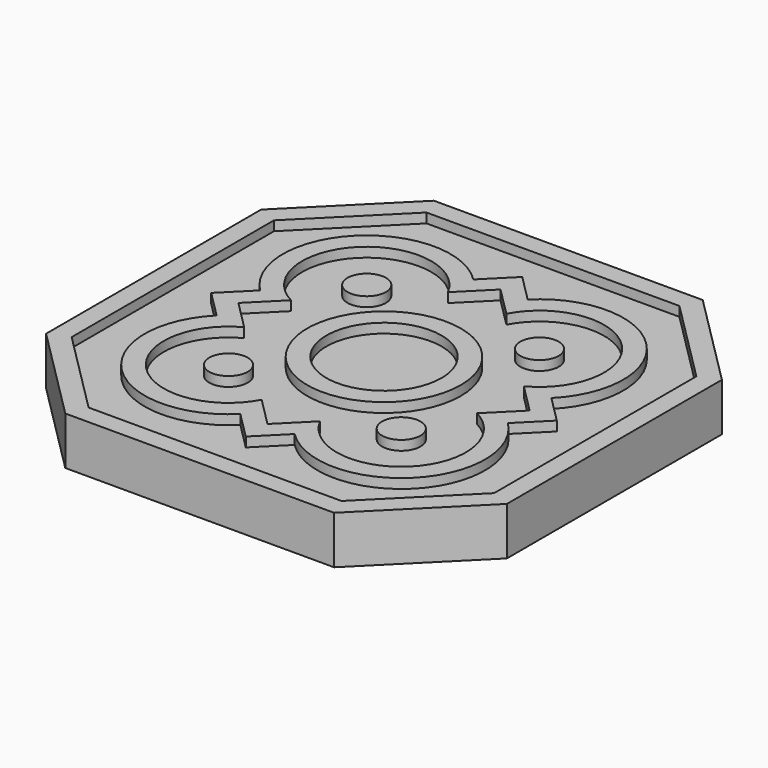
from build123d import *

# Parameters (mm, degrees)
F1_DEPTH = 6.35
F2_R     = 12.7
F2_R_2   = 9.525
F2_R_3   = 3.175
F3_DEPTH = 1.5875
F4_W     = 3.175
F4_H     = 25.4
F5_DEPTH = 3.175
F6_W     = 38.1
F6_H     = 25.4
F7_DEPTH = 3.175


with BuildPart() as f1:
    # F0 (on Top) → F1 (new body)
    with BuildSketch(Plane.XY):
        Polygon((-15.875, 0), (-60.325, 0), (-76.2, -15.875), (-76.2, -60.325), (-60.325, -76.2), (-15.875, -76.2), (0, -60.325), (0, -15.875), align=None)
    extrude(amount=F1_DEPTH)

    # F2 (on face) → F3 (join)
    with BuildSketch(Plane.XY.offset(6.35)):
        Polygon((0, -15.875), (-15.875, 0), (-60.325, 0), (-76.2, -15.875), (-76.2, -60.325), (-60.325, -76.2), (-15.875, -76.2), (0, -60.325), align=None)
        Polygon((-3.175, -17.190128), (-3.175, -59.009872), (-17.190128, -73.025), (-59.009872, -73.025), (-73.025, -59.009872), (-73.025, -17.190128), (-59.009872, -3.175), (-17.190128, -3.175), align=None, mode=Mode.SUBTRACT)
        with BuildLine():
            Line((-38.1, -66.675), (-33.609872, -62.184872))
            ThreePointArc((-33.609872, -62.184872), (-14.015128, -62.184872), (-14.015128, -42.590128))
            Line((-14.015128, -42.590128), (-9.525, -38.1))
            Line((-9.525, -38.1), (-14.015128, -33.609872))
            ThreePointArc((-14.015128, -33.609872), (-14.015128, -14.015128), (-33.609872, -14.015128))
            Line((-33.609872, -14.015128), (-38.1, -9.525))
            Line((-38.1, -9.525), (-42.590128, -14.015128))
            ThreePointArc((-42.590128, -14.015128), (-62.184872, -14.015128), (-62.184872, -33.609872))
            Line((-62.184872, -33.609872), (-66.675, -38.1))
            Line((-66.675, -38.1), (-62.184872, -42.590128))
            ThreePointArc((-62.184872, -42.590128), (-62.184872, -62.184872), (-42.590128, -62.184872))
            Line((-42.590128, -62.184872), (-38.1, -66.675))
        make_face()
        with BuildLine():
            ThreePointArc((-33.268461, -18.846667), (-16.260192, -16.260192), (-18.846667, -33.268461))
            Line((-18.846667, -33.268461), (-14.015128, -38.1))
            Line((-14.015128, -38.1), (-18.846667, -42.931539))
            ThreePointArc((-18.846667, -42.931539), (-16.260192, -59.939808), (-33.268461, -57.353333))
            Line((-33.268461, -57.353333), (-38.1, -62.184872))
            Line((-38.1, -62.184872), (-42.931539, -57.353333))
            ThreePointArc((-42.931539, -57.353333), (-59.939808, -59.939808), (-57.353333, -42.931539))
            Line((-57.353333, -42.931539), (-62.184872, -38.1))
            Line((-62.184872, -38.1), (-57.353333, -33.268461))
            ThreePointArc((-57.353333, -33.268461), (-59.939808, -16.260192), (-42.931539, -18.846667))
            Line((-42.931539, -18.846667), (-38.1, -14.015128))
            Line((-38.1, -14.015128), (-33.268461, -18.846667))
        make_face(mode=Mode.SUBTRACT)
        with Locations((-38.1, -38.1)):
            Circle(F2_R)
        with Locations((-38.1, -38.1)):
            Circle(F2_R_2, mode=Mode.SUBTRACT)
        with Locations((-52.3875, -52.3875)):
            Circle(F2_R_3)
        with Locations((-23.8125, -52.3875)):
            Circle(F2_R_3)
        with Locations((-23.8125, -23.8125)):
            Circle(F2_R_3)
        with Locations((-52.3875, -23.8125)):
            Circle(F2_R_3)
    extrude(amount=F3_DEPTH)

    # F4 (on face) → F5 (join)
    with BuildSketch(Plane(origin=(0, 0, 0), x_dir=(1, 0, 0), z_dir=(0, 0, -1))):
        with Locations((-55.5625, 38.1)):
            Rectangle(F4_W, F4_H)
        with Locations((-20.6375, 38.1)):
            Rectangle(F4_W, F4_H)
    extrude(amount=F5_DEPTH)

    # F6 (on face) → F7 (join)
    with BuildSketch(Plane(origin=(0, 0, -3.175), x_dir=(1, 0, 0), z_dir=(0, 0, -1))):
        with Locations((-38.1, 38.1)):
            Rectangle(F6_W, F6_H)
    extrude(amount=F7_DEPTH)


solid = f1.part
